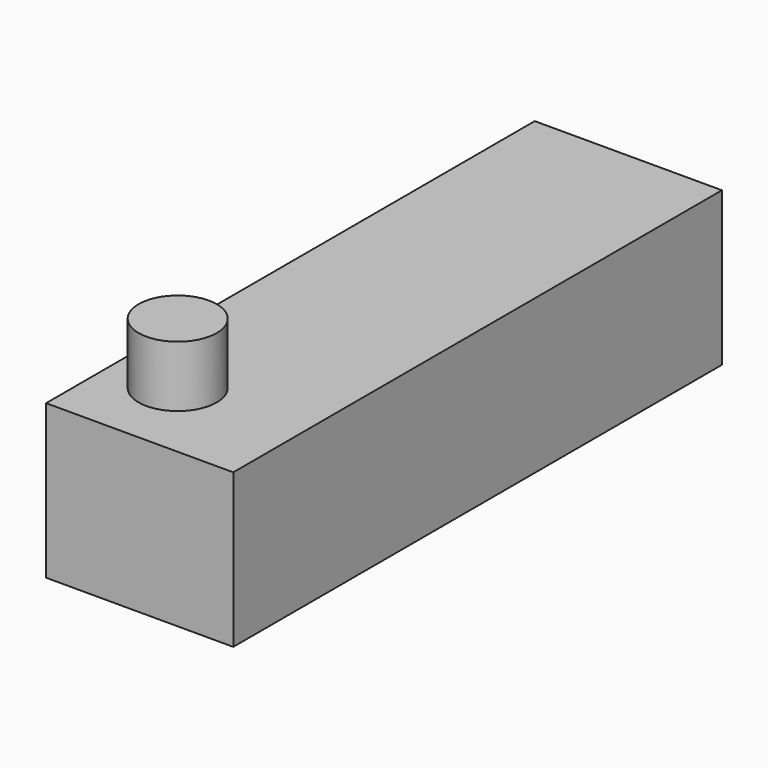
from build123d import *

# Parameters (mm, degrees)
F0_W     = 77.837185
F0_H     = 63.910601
F1_DEPTH = 127
F2_R     = 16.263896
F3_DEPTH = 25.4


with BuildPart() as f1:
    # F0 (on Front) → F1 (new body, symmetric)
    with BuildSketch(Plane.XZ):
        with Locations((-6.431266, 19.314054)):
            Rectangle(F0_W, F0_H)
    extrude(amount=F1_DEPTH, both=True)


with BuildPart() as f3:
    # F2 (on face) → F3 (new body)
    with BuildSketch(Plane.XY.offset(51.269355)):
        with Locations((-18.653028, -91.961771)):
            Circle(F2_R)
    extrude(amount=F3_DEPTH)


solid = Compound([f1.part, f3.part])
